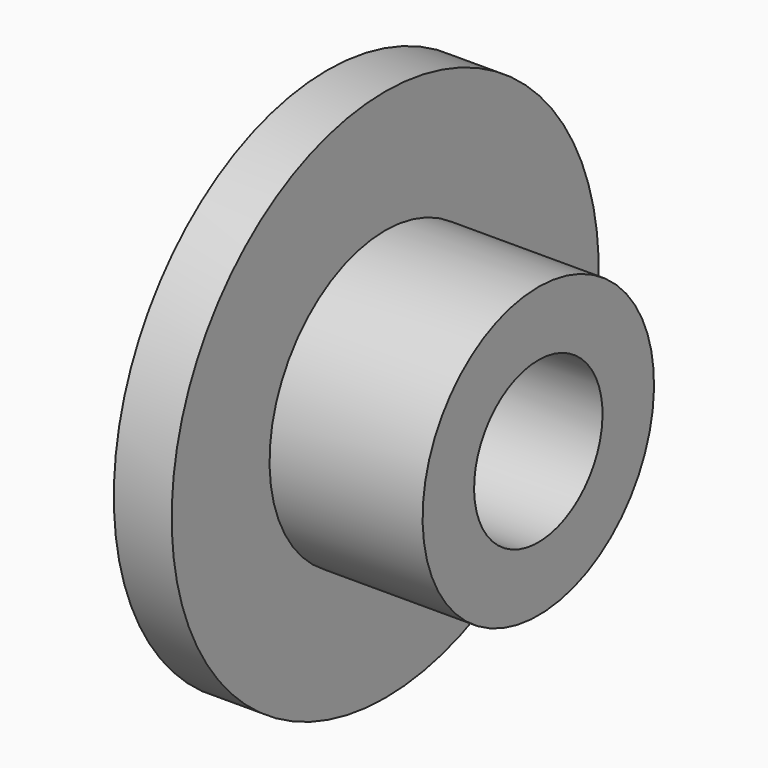
from build123d import *

# Parameters (mm, degrees)
F1_W   = 15.1535272598
F1_H   = 16.8643891811
F1_W_2 = 40.0834977627
F1_H_2 = 32.031647861


with BuildPart() as f0:
    # F1 (on Front) → F0 (revolve)
    with BuildSketch(Plane.XZ):
        with Locations((7.5767636299, 29.4515937567)):
            Rectangle(F1_W, F1_H)
        with Locations((35.1952761412, 29.4515937567)):
            Rectangle(F1_W_2, F1_H)
        with Locations((7.5767636299, 53.8996122777)):
            Rectangle(F1_W, F1_H_2)
    revolve(axis=Axis((27.6185125113, 0, 0), (1, 0, 0)))


solid = f0.part
